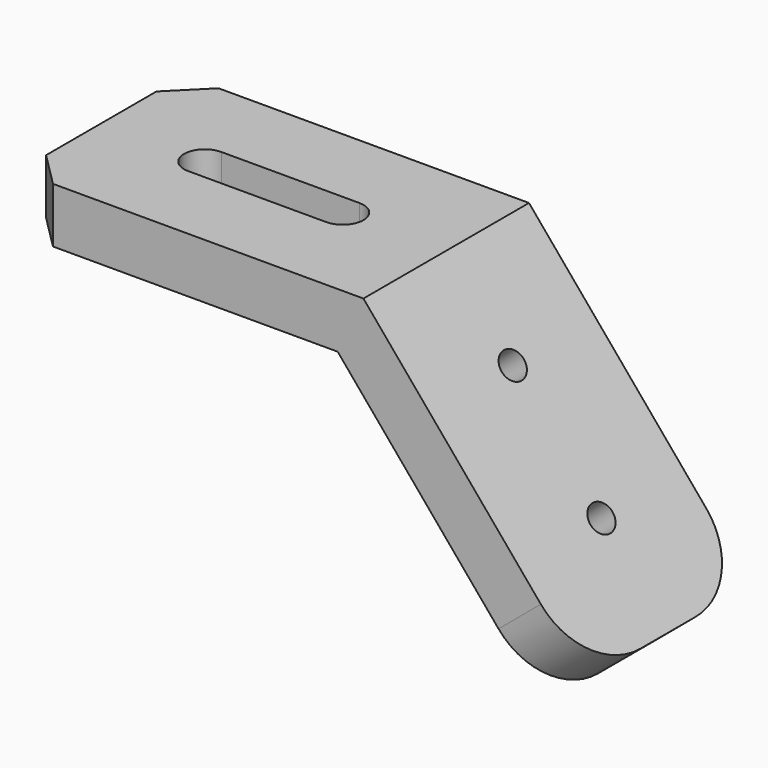
from build123d import *

# Parameters (mm, degrees)
F1_DEPTH = 15
F3_DEPTH = 8.001
F5_D     = 4
F6_R     = 10
F7_SIZE  = 5


with BuildPart() as f1:
    # F0 (on Front) → F1 (new body, symmetric)
    with BuildSketch(Plane.XZ):
        Polygon((0, 8), (0, 0), (46.2695387348, 0), (76.0110249394, -35.4445230334), (82.1393804843, -30.3022221559), (50, 8), align=None)
    extrude(amount=F1_DEPTH, both=True)

    # F2 (on Top) → F3 (cut, through all)
    with BuildSketch(Plane.XY):
        with BuildLine():
            ThreePointArc((35, -3), (38, 0), (35, 3))
            Line((35, 3), (15, 3))
            ThreePointArc((15, 3), (12, 0), (15, -3))
            Line((15, -3), (35, -3))
        make_face()
    extrude(amount=F3_DEPTH, mode=Mode.SUBTRACT)

    # F5 (through all)
    with Locations(Plane(origin=(33.2804354537, 0, 27.9256011146), x_dir=(0, 1, 0), z_dir=(0.7660444431, 0, 0.6427876097))):
        with Locations((0, -41.0110249394), (0, -61.0110249394)):
            Hole(F5_D / 2)

    # F6
    f6_edges = [f1.edges().sort_by_distance(p)[0] for p in [
        (79.075203, -15, -32.873373),
        (79.075203, 15, -32.873373),
    ]]
    fillet(f6_edges, radius=F6_R)

    # F7
    f7_edges = [f1.edges().sort_by_distance(p)[0] for p in [
        (0, 15, 4),
        (0, -15, 4),
    ]]
    chamfer(f7_edges, length=F7_SIZE)


solid = f1.part
